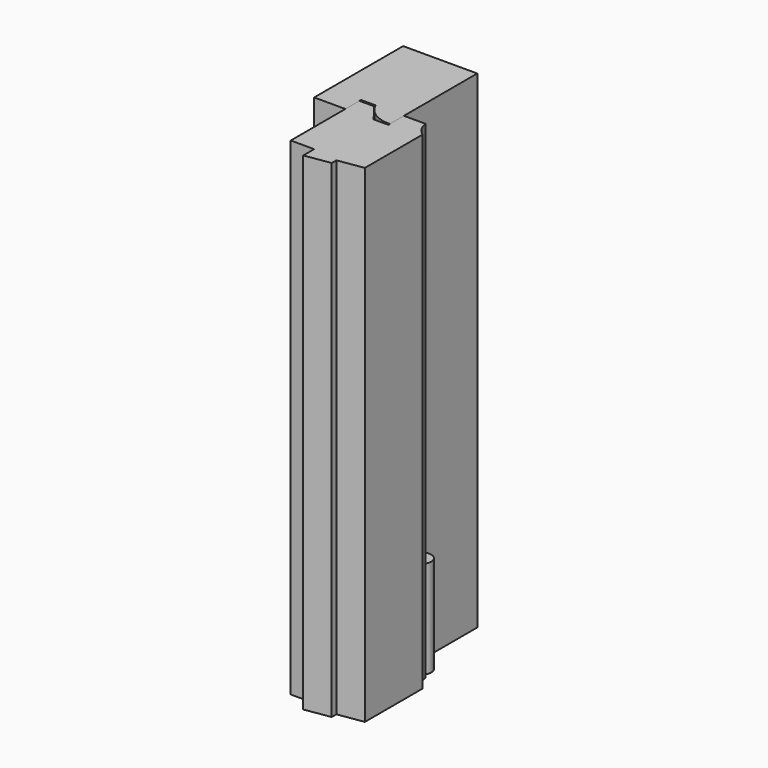
from build123d import *

# Parameters (mm, degrees)
EXTRUDE_DEPTH    = 250
EXTRUDE001_DEPTH = 250
SKETCH005_R      = 5
EXTRUDE002_DEPTH = 50


with BuildPart() as extrude_body:
    # Sketch003 → Extrude (new body)
    with BuildSketch(Plane.XY):
        with BuildLine():
            Line((0, 0), (0, 57))
            Line((0, 57), (38, 57))
            Line((38, 57), (38, 1))
            ThreePointArc((23.5, 10), (29.345332, 3.236924), (38, 1))
            Line((16, 10), (23.5, 10))
            Line((16, 0), (16, 10))
            Line((0, 0), (16, 0))
        make_face()
    extrude(amount=EXTRUDE_DEPTH)


with BuildPart() as extrude001:
    # Sketch004 (on Sketch) → Extrude001 (new body)
    with BuildSketch(Plane.XY):
        with BuildLine():
            Line((16, -35), (28, -35))
            Line((28, -35), (28, -42))
            Line((28, -42), (41, -40))
            Line((41, -40), (41, -37))
            Line((41, -37), (54, -35))
            Line((54, -35), (54, 2))
            ThreePointArc((49, 10), (50.680866, 5.488041), (54, 2))
            Line((49, 10), (38, 10))
            Line((38, 10), (38, 0))
            Line((38, 0), (30.5, 0))
            Line((23.5, 9), (30.5, 0))
            Line((16, 9), (23.5, 9))
            Line((16, 9), (16, -35))
        make_face()
    extrude(amount=EXTRUDE001_DEPTH)


with BuildPart() as extrude002:
    # Sketch005 (on Sketch) → Extrude002 (new body)
    with BuildSketch(Plane.XY):
        with Locations((43, 15)):
            Circle(SKETCH005_R)
    extrude(amount=EXTRUDE002_DEPTH)


solid = Compound([extrude_body.part, extrude001.part, extrude002.part])
